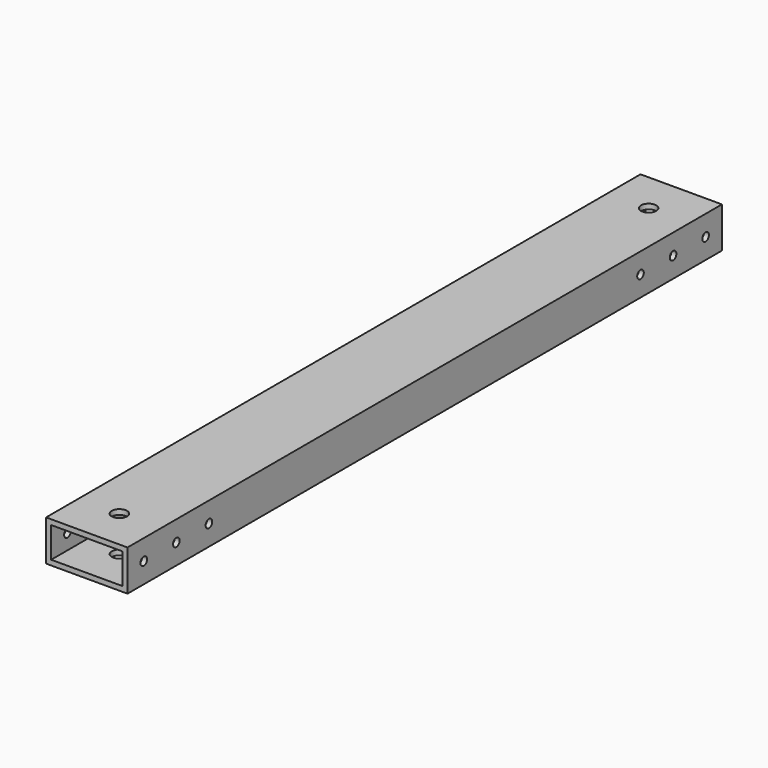
from build123d import *

# Parameters (mm, degrees)
F0_W     = 50.8
F0_H     = 25.4
F0_W_2   = 44.45
F0_H_2   = 19.05
F1_DEPTH = 463.55
F2_R     = 2.5781
F3_DEPTH = 50.801
F4_R     = 4.7625
F5_DEPTH = 25.401


with BuildPart() as f1:
    # F0 (on Front) → F1 (new body)
    with BuildSketch(Plane.XZ):
        with Locations((-6.57482, 3.593568)):
            Rectangle(F0_W, F0_H)
        with Locations((-6.57482, 3.593568)):
            Rectangle(F0_W_2, F0_H_2, mode=Mode.SUBTRACT)
    extrude(amount=F1_DEPTH)

    # F2 (on face) → F3 (cut, through all)
    with BuildSketch(Plane(origin=(-31.97482, 0, 0), x_dir=(0, -1, 0), z_dir=(-1, 0, 0))):
        with Locations((12.7, 3.593568)):
            Circle(F2_R)
        with Locations((38.1, 3.593568)):
            Circle(F2_R)
        with Locations((63.5, 3.593568)):
            Circle(F2_R)
        with Locations((400.05, 3.593568)):
            Circle(F2_R)
        with Locations((425.45, 3.593568)):
            Circle(F2_R)
        with Locations((450.85, 3.593568)):
            Circle(F2_R)
    extrude(amount=-F3_DEPTH, mode=Mode.SUBTRACT)

    # F4 (on face) → F5 (cut, through all)
    with BuildSketch(Plane.XY.offset(16.293568)):
        with Locations((-6.57482, -438.15)):
            Circle(F4_R)
        with Locations((-6.57482, -25.4)):
            Circle(F4_R)
    extrude(amount=-F5_DEPTH, mode=Mode.SUBTRACT)


solid = f1.part
